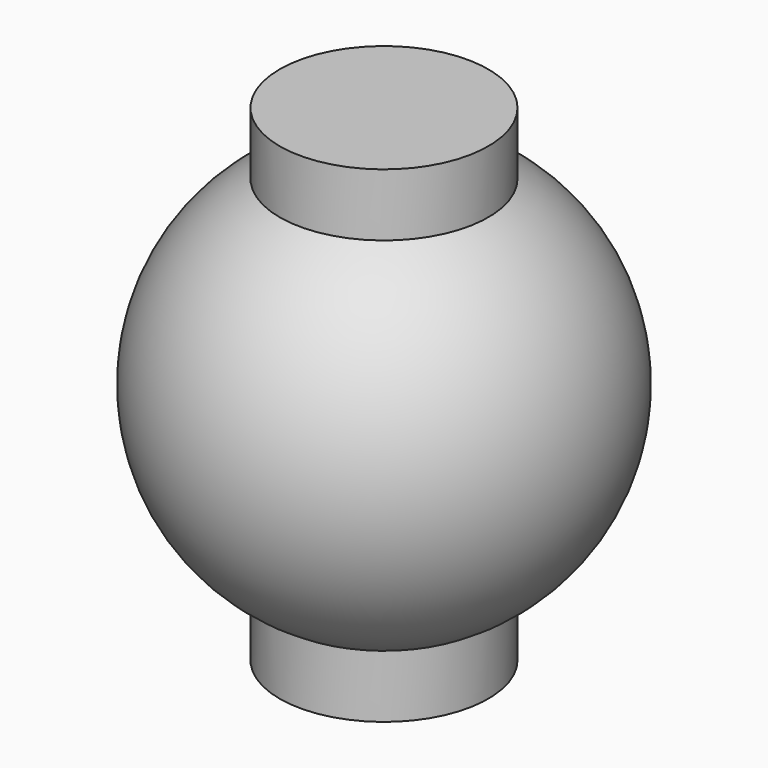
from build123d import *


with BuildPart() as f1:
    # F0 (on Front) → F1 (revolve)
    with BuildSketch(Plane.XZ):
        with BuildLine():
            Line((0, -10), (0, 10))
            ThreePointArc((0, 10), (-2.58819, 9.659258), (-5, 8.660254))
            ThreePointArc((-5, 8.660254), (-10, 0), (-5, -8.660254))
            ThreePointArc((-5, -8.660254), (-2.58819, -9.659258), (0, -10))
        make_face()
        with BuildLine():
            ThreePointArc((-5, 8.660254), (-2.58819, 9.659258), (0, 10))
            Line((0, 10), (0, 11.660254))
            Line((0, 11.660254), (-5, 11.660254))
            Line((-5, 11.660254), (-5, 8.660254))
        make_face()
        with BuildLine():
            Line((0, -11.660254), (0, -10))
            ThreePointArc((0, -10), (-2.58819, -9.659258), (-5, -8.660254))
            Line((-5, -8.660254), (-5, -11.660254))
            Line((-5, -11.660254), (0, -11.660254))
        make_face()
    revolve(axis=Axis((0, 0, 0.218862), (0, 0, -1)))


solid = f1.part
